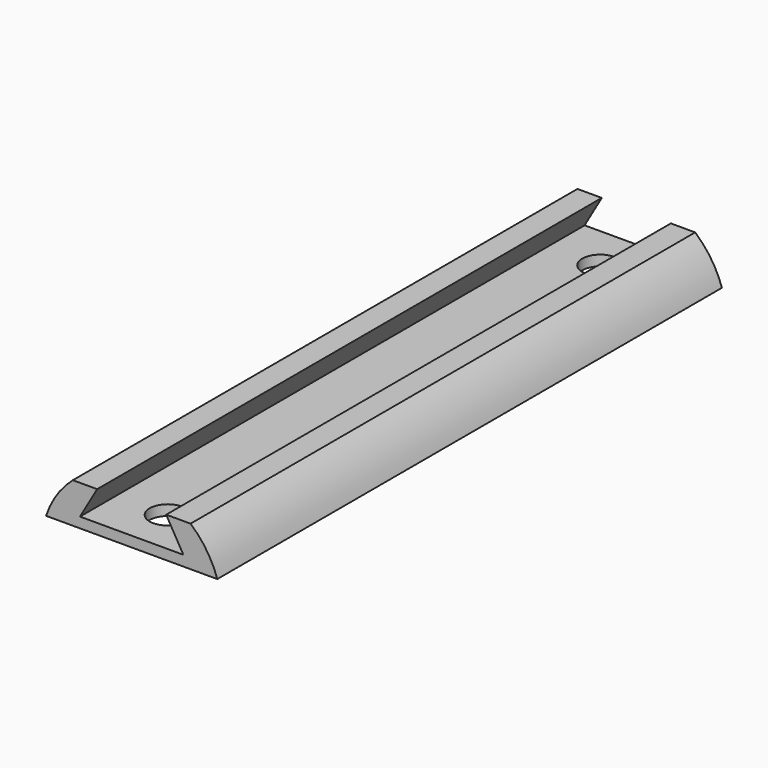
from build123d import *

# Parameters (mm, degrees)
F1_DEPTH = 70
F2_R     = 2
F3_DEPTH = 1.151


with BuildPart() as f1:
    # F0 (on Front) → F1 (new body)
    with BuildSketch(Plane.XZ):
        with BuildLine():
            Line((-9.5, 3.122499), (9.5, 3.122499))
            ThreePointArc((9.5, 3.122499), (8.318707, 5.549695), (6.531252, 7.572499))
            Line((6.531252, 7.572499), (3.831252, 7.572499))
            Line((3.831252, 7.572499), (5.736508, 4.272499))
            Line((5.736508, 4.272499), (0, 4.272499))
            Line((0, 4.272499), (-5.736508, 4.272499))
            Line((-5.736508, 4.272499), (-3.831252, 7.572499))
            Line((-3.831252, 7.572499), (-6.531252, 7.572499))
            ThreePointArc((-6.531252, 7.572499), (-8.318707, 5.549695), (-9.5, 3.122499))
        make_face()
    extrude(amount=-F1_DEPTH)

    # F2 (on face) → F3 (cut, through all)
    with BuildSketch(Plane.XY.offset(4.272499)):
        with Locations((0, 5)):
            Circle(F2_R)
        with Locations((0, 65)):
            Circle(F2_R)
    extrude(amount=-F3_DEPTH, mode=Mode.SUBTRACT)


solid = f1.part
